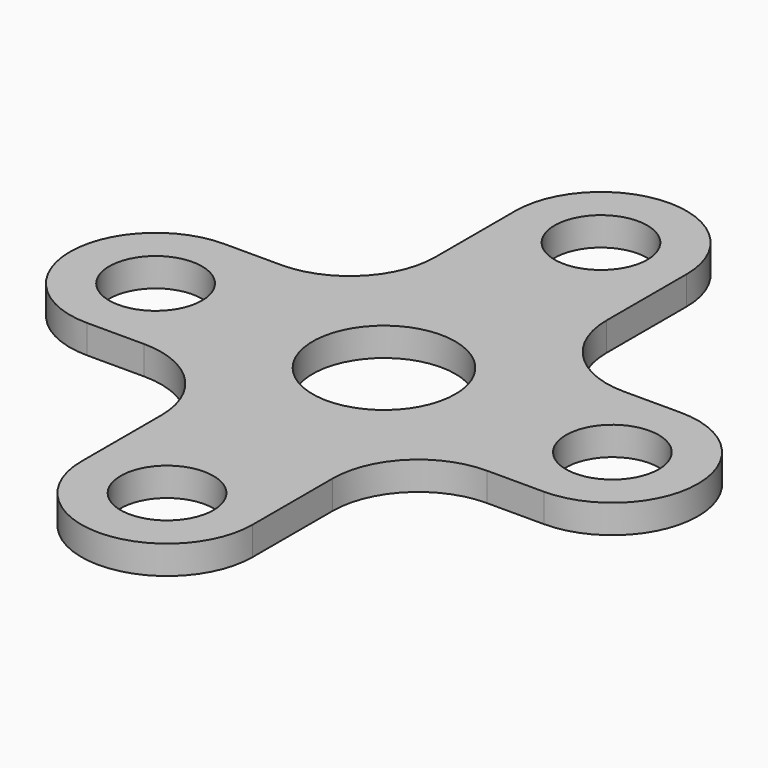
from build123d import *

# Parameters (mm, degrees)
F0_R     = 1.625
F0_R_2   = 2.5
F1_DEPTH = 1


with BuildPart() as f1:
    # F0 (on Top) → F1 (new body)
    with BuildSketch(Plane.XY):
        with BuildLine():
            ThreePointArc((3, 9.5), (0, 12.5), (-3, 9.5))
            Line((-3, 9.5), (-3, 6))
            ThreePointArc((-3, 6), (-3.87868, 3.87868), (-6, 3))
            Line((-6, 3), (-8, 3))
            ThreePointArc((-8, 3), (-11, 0), (-8, -3))
            Line((-8, -3), (-6, -3))
            ThreePointArc((-6, -3), (-3.87868, -3.87868), (-3, -6))
            Line((-3, -6), (-3, -9.5))
            ThreePointArc((-3, -9.5), (0, -12.5), (3, -9.5))
            Line((3, -9.5), (3, -6))
            ThreePointArc((3, -6), (3.87868, -3.87868), (6, -3))
            Line((6, -3), (8, -3))
            ThreePointArc((8, -3), (11, 0), (8, 3))
            Line((8, 3), (6, 3))
            ThreePointArc((6, 3), (3.87868, 3.87868), (3, 6))
            Line((3, 6), (3, 9.5))
        make_face()
        with Locations((0, -9.5)):
            Circle(F0_R, mode=Mode.SUBTRACT)
        with Locations((-8, 0)):
            Circle(F0_R, mode=Mode.SUBTRACT)
        Circle(F0_R_2, mode=Mode.SUBTRACT)
        with Locations((8, 0)):
            Circle(F0_R, mode=Mode.SUBTRACT)
        with Locations((0, 9.5)):
            Circle(F0_R, mode=Mode.SUBTRACT)
    extrude(amount=F1_DEPTH)


solid = f1.part
